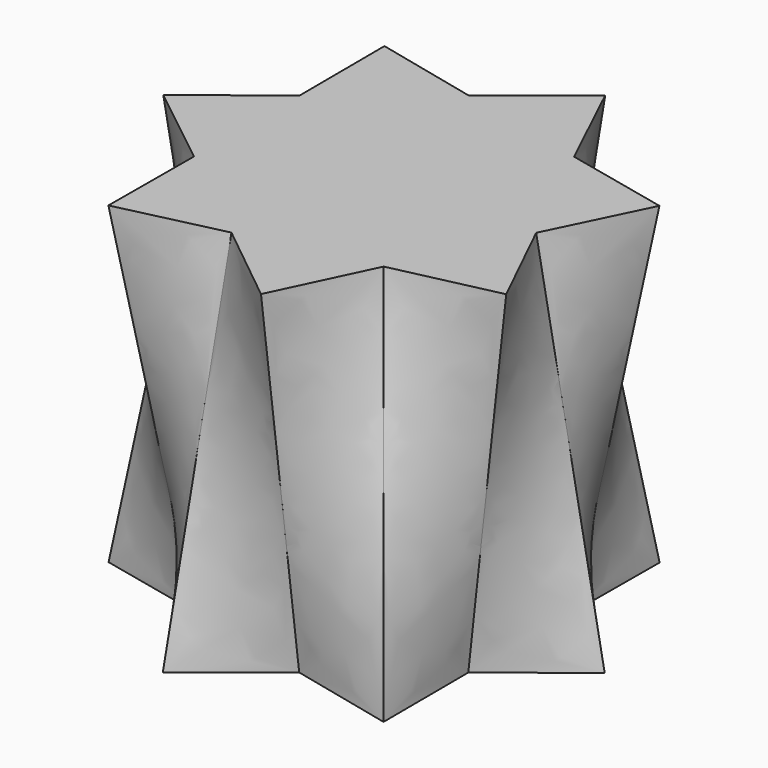
from build123d import *


with BuildPart() as part:
    # Sketch → AdditiveLoft section 0
    with BuildSketch(Plane.XY):
        Polygon((-50, 0), (-65.332946, 31.462689), (-31.17449, 39.091574), (-16.135905, 70.696019), (11.126047, 48.746396), (45.211801, 56.693806), (45.048443, 21.694187), (72.514099, 0), (45.048443, -21.694187), (45.211801, -56.693806), (11.126047, -48.746396), (-16.135905, -70.696019), (-31.17449, -39.091574), (-65.332946, -31.462689), align=None)
    # Sketch001 → AdditiveLoft section 1
    with BuildSketch(Plane.XY.offset(120)):
        Polygon((-45.048443, 21.694187), (-45.211801, 56.693806), (-11.126047, 48.746396), (16.135905, 70.696019), (31.17449, 39.091574), (65.332946, 31.462689), (50, 0), (65.332946, -31.462689), (31.17449, -39.091574), (16.135905, -70.696019), (-11.126047, -48.746396), (-45.211801, -56.693806), (-45.048443, -21.694187), (-72.514099, 0), align=None)
    loft()


solid = part.part
